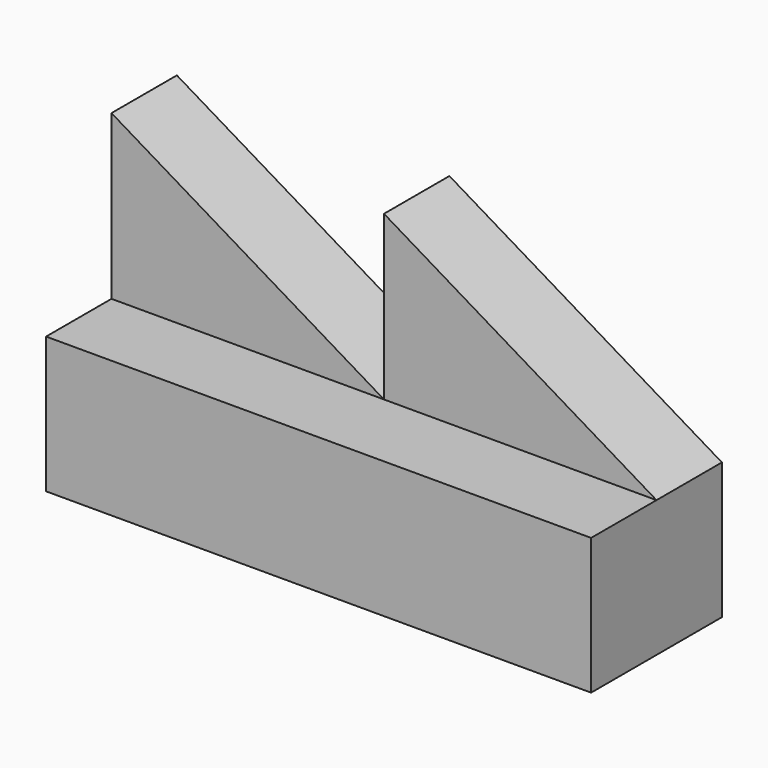
from build123d import *

# Parameters (mm, degrees)
F1_DEPTH = 38.1
F2_DEPTH = 19.05


with BuildPart() as f1:
    # F0 (on Front) → F1 (new body)
    with BuildSketch(Plane.XZ):
        Polygon((-63.5, 0), (-63.5, -31.75), (63.5, -31.75), (63.5, 0), (0, 0), align=None)
    extrude(amount=F1_DEPTH)

    # F0 (on Front) → F2 (join)
    with BuildSketch(Plane.XZ):
        Polygon((-63.5, 38.1), (-63.5, 0), (0, 0), align=None)
        Polygon((0, 0), (63.5, 0), (0, 38.1), align=None)
    extrude(amount=F2_DEPTH)


solid = f1.part
